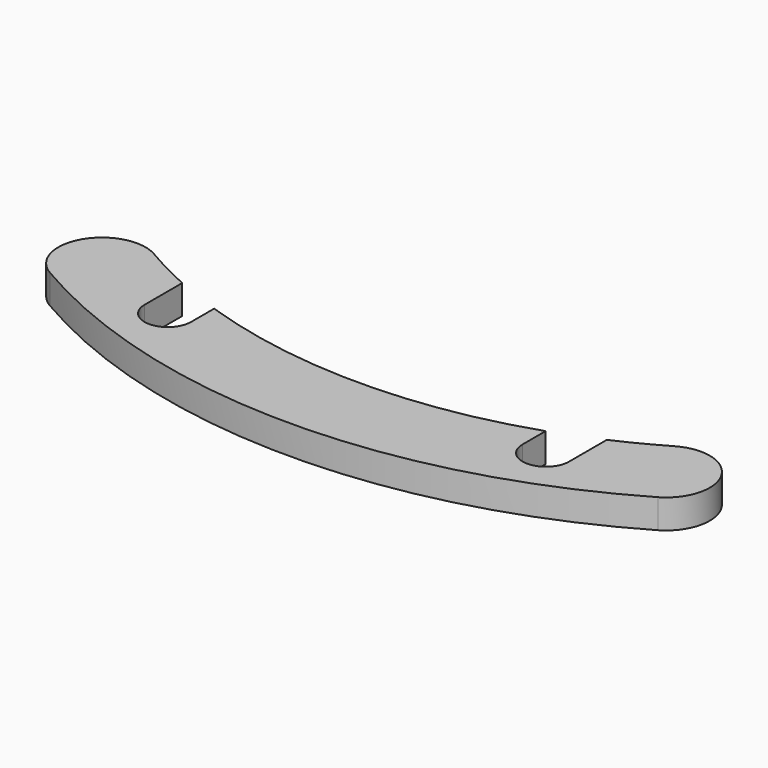
from build123d import *

# Parameters (mm, degrees)
F1_DEPTH = 1


with BuildPart() as f1:
    # F0 (on Top) → F1 (new body)
    with BuildSketch(Plane.XY):
        with BuildLine():
            ThreePointArc((-7.3, -16.234223), (-8.134055, -15.832787), (-8.946114, -15.388536))
            ThreePointArc((-8.946114, -15.388536), (-10.996787, -15.931437), (-10.453886, -17.98211))
            ThreePointArc((-10.453886, -17.98211), (0, -20.8), (10.453886, -17.98211))
            ThreePointArc((10.453886, -17.98211), (10.996787, -15.931437), (8.946114, -15.388536))
            ThreePointArc((8.946114, -15.388536), (8.134055, -15.832787), (7.3, -16.234223))
            Line((7.3, -16.234223), (7.3, -17.853571))
            ThreePointArc((7.3, -17.853571), (6.5, -18.653571), (5.7, -17.853571))
            Line((5.7, -17.853571), (5.7, -16.862681))
            ThreePointArc((5.7, -16.862681), (0, -17.8), (-5.7, -16.862681))
            Line((-5.7, -16.862681), (-5.7, -17.853571))
            ThreePointArc((-5.7, -17.853571), (-6.5, -18.653571), (-7.3, -17.853571))
            Line((-7.3, -17.853571), (-7.3, -16.234223))
        make_face()
    extrude(amount=F1_DEPTH)


solid = f1.part
